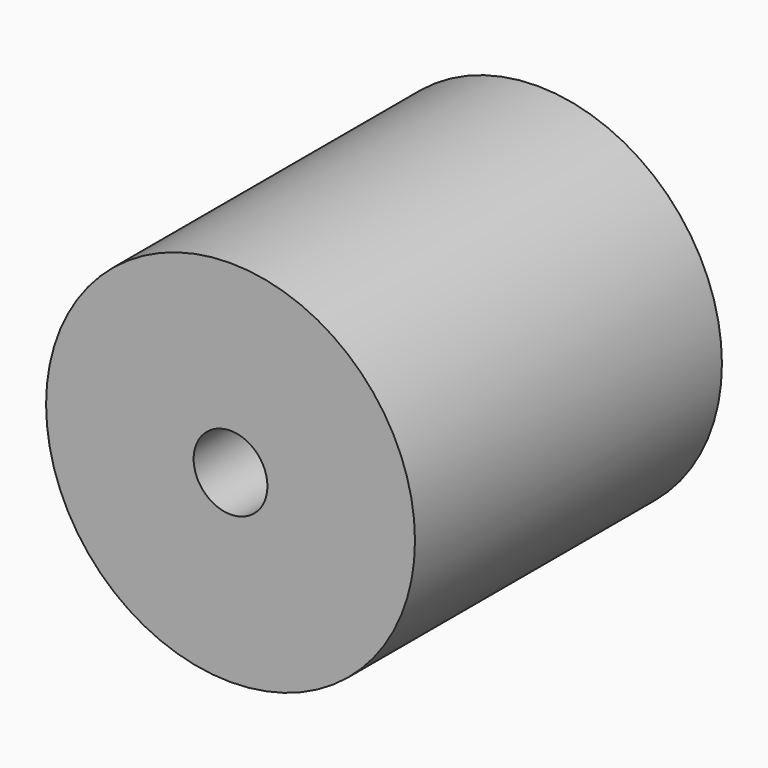
from build123d import *

# Parameters (mm, degrees)
SKETCH036_R     = 12.5
PAD009_DEPTH    = 13
SKETCH038_R     = 2.5
POCKET023_DEPTH = 8
SKETCH037_R     = 2.5
POCKET024_DEPTH = 8


with BuildPart() as part:
    # Sketch036 → Pad009 (new body, symmetric)
    with BuildSketch(Plane.XZ):
        Circle(SKETCH036_R)
    extrude(amount=PAD009_DEPTH, both=True)

    # Sketch038 (on Face3 of Pad009) → Pocket023 (cut)
    with BuildSketch(Plane.XZ.offset(13)):
        Circle(SKETCH038_R)
    extrude(amount=-POCKET023_DEPTH, mode=Mode.SUBTRACT)

    # Sketch037 (on Face2 of Pocket023) → Pocket024 (cut)
    with BuildSketch(Plane(origin=(0, 13, 0), x_dir=(1, 0, 0), z_dir=(0, 1, 0))):
        Circle(SKETCH037_R)
    extrude(amount=-POCKET024_DEPTH, mode=Mode.SUBTRACT)


with BuildPart() as part_1:
    # Body007 placement: moved
    add(part.part.moved(Location((0, -17.75, 150))))


solid = part_1.part
